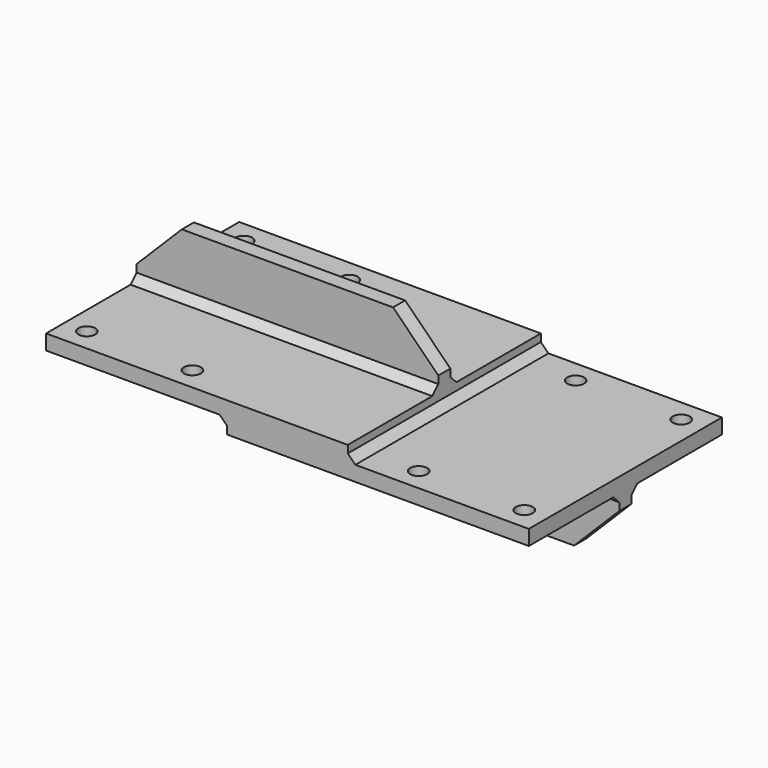
from build123d import *

# Parameters (mm, degrees)
F0_W     = 254
F0_H     = 203.2
F0_R     = 7.14375
F1_DEPTH = 12.7
F2_W     = 254
F2_H     = 203.2
F2_R     = 7.14375
F3_DEPTH = 12.7
F4_W     = 254
F4_H     = 12.7
F5_DEPTH = 50.8
F6_SIZE  = 38.1
F7_W     = 254
F7_H     = 12.7
F8_DEPTH = 50.8
F9_SIZE  = 38.1
F10_SIZE = 6.35


with BuildPart() as f1:
    # F0 (on Top) → F1 (new body)
    with BuildSketch(Plane.XY):
        with Locations((-76.2, 0)):
            Rectangle(F0_W, F0_H)
        with Locations((-184.15, -82.55)):
            Circle(F0_R, mode=Mode.SUBTRACT)
        with Locations((-95.25, -82.55)):
            Circle(F0_R, mode=Mode.SUBTRACT)
        with Locations((-184.15, 82.55)):
            Circle(F0_R, mode=Mode.SUBTRACT)
        with Locations((-95.25, 82.55)):
            Circle(F0_R, mode=Mode.SUBTRACT)
    extrude(amount=F1_DEPTH)

    # F2 (on face) → F3 (join)
    with BuildSketch(Plane(origin=(0, 0, 0), x_dir=(1, 0, 0), z_dir=(0, 0, -1))):
        with Locations((76.2, 0)):
            Rectangle(F2_W, F2_H)
        with Locations((95.25, -82.55)):
            Circle(F2_R, mode=Mode.SUBTRACT)
        with Locations((184.15, -82.55)):
            Circle(F2_R, mode=Mode.SUBTRACT)
        with Locations((95.25, 82.55)):
            Circle(F2_R, mode=Mode.SUBTRACT)
        with Locations((184.15, 82.55)):
            Circle(F2_R, mode=Mode.SUBTRACT)
    extrude(amount=F3_DEPTH)

    # F4 (on face) → F5 (join)
    with BuildSketch(Plane.XY.offset(12.7)):
        with Locations((-76.2, 0)):
            Rectangle(F4_W, F4_H)
    extrude(amount=F5_DEPTH)

    # F6
    f6_edges = [f1.edges().sort_by_distance(p)[0] for p in [
        (-203.2, 0, 63.5),
        (50.8, 0, 63.5),
    ]]
    chamfer(f6_edges, length=F6_SIZE)

    # F7 (on face) → F8 (join)
    with BuildSketch(Plane(origin=(0, 0, -12.7), x_dir=(1, 0, 0), z_dir=(0, 0, -1))):
        with Locations((76.2, 0)):
            Rectangle(F7_W, F7_H)
    extrude(amount=F8_DEPTH)

    # F9
    f9_edges = [f1.edges().sort_by_distance(p)[0] for p in [
        (203.2, 0, -63.5),
        (-50.8, 0, -63.5),
    ]]
    chamfer(f9_edges, length=F9_SIZE)

    # F10
    f10_edges = [f1.edges().sort_by_distance(p)[0] for p in [
        (50.8, 0, 0),
        (-76.2, -6.35, 12.7),
        (-76.2, 6.35, 12.7),
        (-50.8, 0, 0),
        (76.2, 6.35, -12.7),
        (76.2, -6.35, -12.7),
    ]]
    chamfer(f10_edges, length=F10_SIZE)


solid = f1.part
